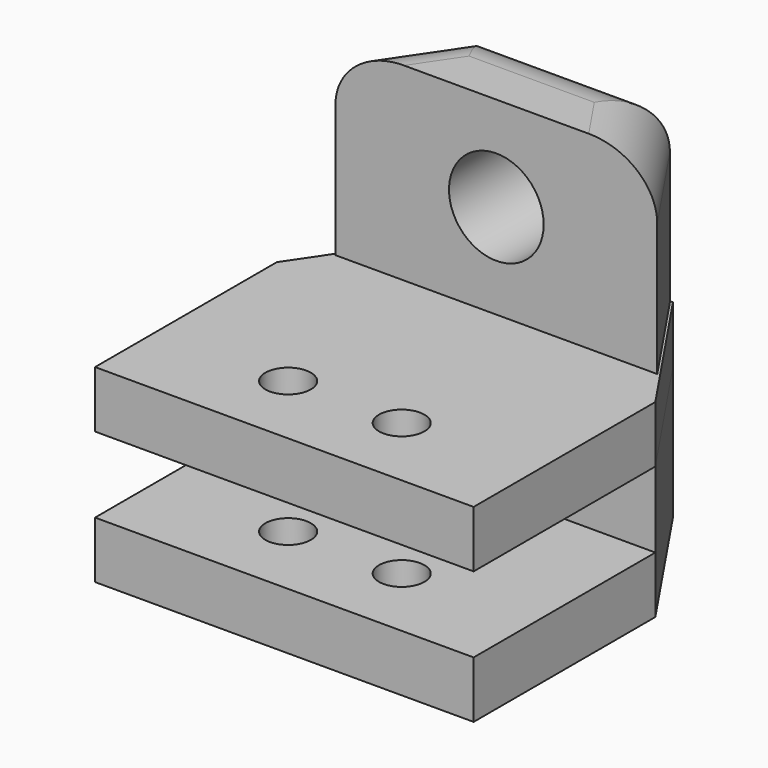
from build123d import *

# Parameters (mm, degrees)
SKETCH_R        = 1.2
PAD_DEPTH       = 3
PAD001_DEPTH    = 10
FILLET_R        = 3
SKETCH002_R     = 2.5
POCKET_DEPTH    = 6
PAD002_DEPTH    = 7
SKETCH004_W     = 20
SKETCH004_H     = 4
POCKET001_DEPTH = 12
SKETCH006_R     = 1.2
POCKET002_DEPTH = 5


with BuildPart() as part:
    # Sketch → Pad (new body)
    with BuildSketch(Plane.XY):
        Polygon((0, 12), (0, 0), (-20, 0), (-20, 12), (-15, 19.412805), (-5, 19.412805), align=None)
        with Locations((-13, 4)):
            Circle(SKETCH_R, mode=Mode.SUBTRACT)
        with Locations((-7, 4)):
            Circle(SKETCH_R, mode=Mode.SUBTRACT)
    extrude(amount=PAD_DEPTH)

    # Sketch001 (on Face10 of Pad) → Pad001 (join)
    with BuildSketch(Plane.XY.offset(3)):
        Polygon((-14.90374, 19.331674), (-5.09626, 19.331674), (-1.5, 14), (-18.5, 14), align=None)
    extrude(amount=PAD001_DEPTH)

    # Fillet
    fillet_edges = [part.edges().sort_by_distance(p)[0] for p in [
        (-3.29813, 16.665837, 13),
        (-10, 19.331674, 13),
        (-16.70187, 16.665837, 13),
    ]]
    fillet(fillet_edges, radius=FILLET_R)

    # Sketch002 (on Face12 of Pad001) → Pocket (cut)
    with BuildSketch(Plane.XZ.offset(-14)):
        with Locations((-10, 8)):
            Circle(SKETCH002_R)
    extrude(amount=-POCKET_DEPTH, mode=Mode.SUBTRACT)

    # Sketch003 (on Face19 of Pocket) → Pad002 (join)
    with BuildSketch(Plane(origin=(0, 0, 0), x_dir=(1, 0, 0), z_dir=(0, 0, -1))):
        Polygon((0, 0), (-20, 0), (-20, -12), (-15.004024, -19.406839), (-4.995976, -19.406839), (0, -12), align=None)
    extrude(amount=PAD002_DEPTH)

    # Sketch004 (on Face22 of Pad002) → Pocket001 (cut)
    with BuildSketch(Plane.XZ):
        with Locations((-10, -2)):
            Rectangle(SKETCH004_W, SKETCH004_H)
    extrude(amount=-POCKET001_DEPTH, mode=Mode.SUBTRACT)

    # Sketch006 (on Face26 of Pocket001) → Pocket002 (cut)
    with BuildSketch(Plane(origin=(0, 0, -7), x_dir=(1, 0, 0), z_dir=(0, 0, -1))):
        with Locations((-13, -4)):
            Circle(SKETCH006_R)
        with Locations((-7, -4)):
            Circle(SKETCH006_R)
    extrude(amount=-POCKET002_DEPTH, mode=Mode.SUBTRACT)


solid = part.part
